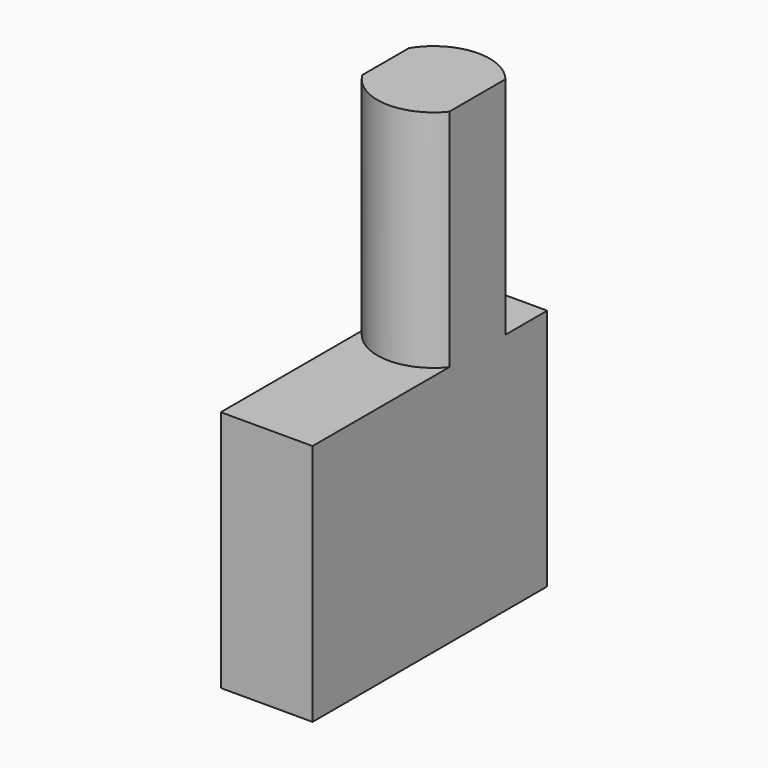
from build123d import *

# Parameters (mm, degrees)
F0_W     = 81.2007859349
F0_H     = 67.2337114811
F1_DEPTH = 25.4
F3_DEPTH = 62.27706559


with BuildPart() as f1:
    # F0 (on Right) → F1 (new body)
    with BuildSketch(Plane.YZ):
        with Locations((8.2174725831, 8.0763250589)):
            Rectangle(F0_W, F0_H)
    extrude(amount=F1_DEPTH)

    # F2 (on face) → F3 (join)
    with BuildSketch(Plane.XY.offset(41.6931807995)):
        with BuildLine():
            Line((25.4, 14.9255083167), (25.4, 34.3787087835))
            ThreePointArc((25.4, 34.3787087835), (12.2687055862, 40.1589168825), (0, 32.721137517))
            Line((0, 32.721137517), (0, 16.5830795832))
            ThreePointArc((0, 16.5830795832), (12.2687055862, 9.1453002176), (25.4, 14.9255083167))
        make_face()
    extrude(amount=F3_DEPTH)


solid = f1.part
